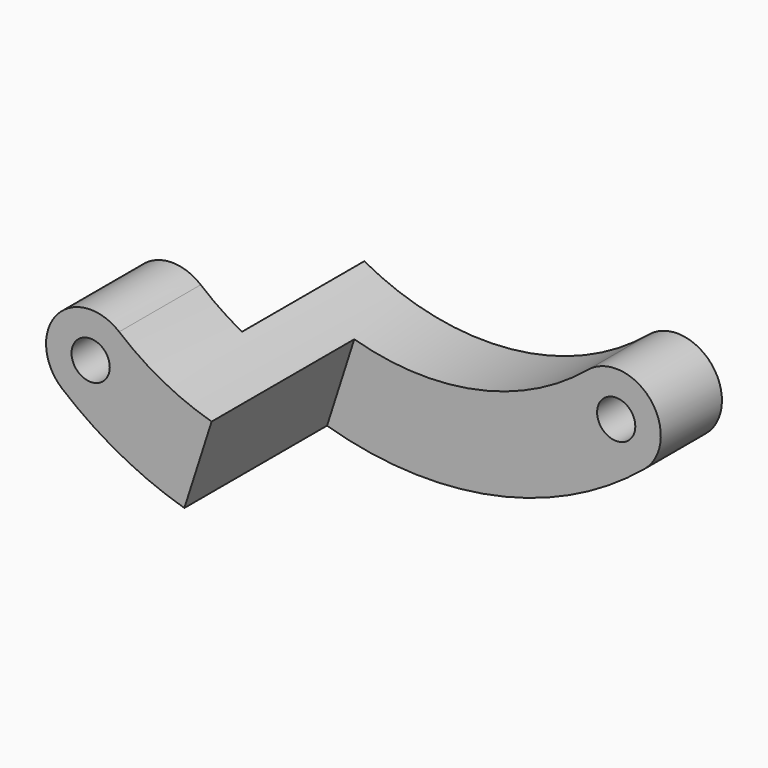
from build123d import *

# Parameters (mm, degrees)
F1_DEPTH = 10
F3_DEPTH = 14
F5_DEPTH = 12


with BuildPart() as f1:
    # F0 (on Front) → F1 (new body, symmetric)
    with BuildSketch(Plane.XZ):
        with BuildLine():
            ThreePointArc((12.7872340426, -15.3781223022), (0, -20), (-12.7872340426, -15.3781223022))
            ThreePointArc((-12.7872340426, -15.3781223022), (-17.7161714029, -15.8315277476), (-17.2627659574, -20.760465108))
            ThreePointArc((-17.2627659574, -20.760465108), (0, -27), (17.2627659574, -20.760465108))
            ThreePointArc((17.2627659574, -20.760465108), (17.7161714029, -15.8315277476), (12.7872340426, -15.3781223022))
        make_face()
        with BuildLine():
            ThreePointArc((-13.525, -18.0692937051), (-13.6063617319, -18.556597988), (-13.8416206189, -18.9910383771))
            ThreePointArc((-13.8416206189, -18.9910383771), (-16.4436382681, -17.5819894221), (-13.525, -18.0692937051))
        make_face(mode=Mode.SUBTRACT)
        with BuildLine():
            ThreePointArc((16.525, -18.0692937051), (15.512304283, -19.4879319732), (13.8416206189, -18.9910383771))
            ThreePointArc((13.8416206189, -18.9910383771), (14.537695717, -16.6506554369), (16.525, -18.0692937051))
        make_face(mode=Mode.SUBTRACT)
    extrude(amount=F1_DEPTH, both=True)

    # F2 (on face) → F3 (cut)
    with BuildSketch(Plane.XZ.offset(10)):
        Polygon((-2.3909412976, -9.4292996609), (-9.1462977059, -30.4901171085), (24.7288569808, -31.99012205), (30.0422031432, -11.7994137108), align=None)
    extrude(amount=-F3_DEPTH, mode=Mode.SUBTRACT)

    # F4 (on face) → F5 (cut)
    with BuildSketch(Plane(origin=(0, 10, 0), x_dir=(-1, 0, 0), z_dir=(0, 1, 0))):
        Polygon((13.4975397959, -6.4067570493), (6.4347200096, -13.4695768356), (17.8041364998, -28.4565351903), (37.6144833863, -8.6461873725), align=None)
    extrude(amount=-F5_DEPTH, mode=Mode.SUBTRACT)


solid = f1.part
